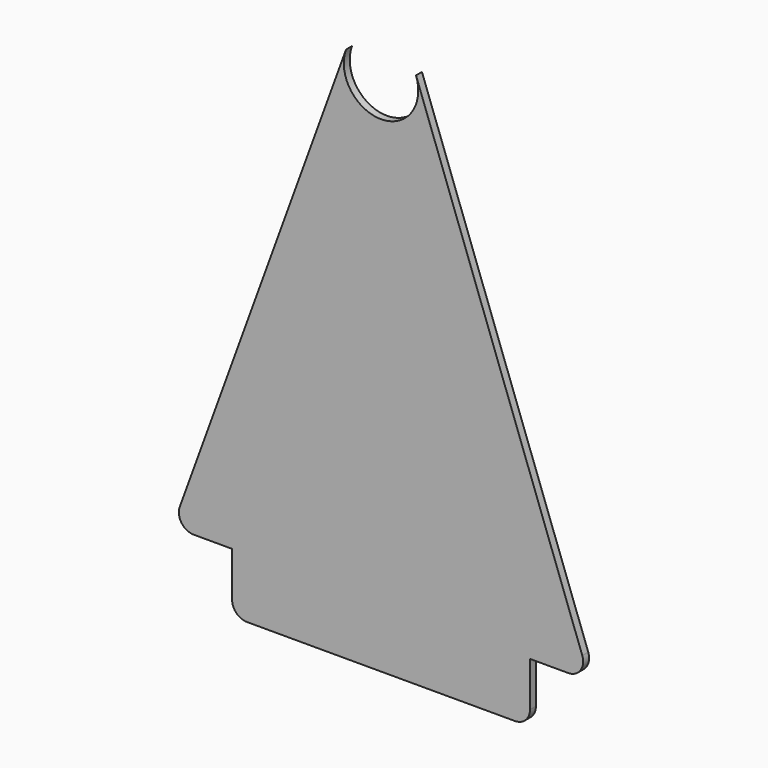
from build123d import *

# Parameters (mm, degrees)
F1_DEPTH = 3.175


with BuildPart() as f1:
    # F0 (on Front) → F1 (new body)
    with BuildSketch(Plane.XZ):
        with BuildLine():
            Line((-57.15, -63.769177), (57.15, -63.769177))
            ThreePointArc((57.15, -63.769177), (61.640128, -61.909305), (63.5, -57.419177))
            Line((63.5, -57.419177), (63.5, -38.369177))
            Line((63.5, -38.369177), (-63.5, -38.369177))
            Line((-63.5, -38.369177), (-63.5, -57.419177))
            ThreePointArc((-63.5, -57.419177), (-61.640128, -61.909305), (-57.15, -63.769177))
        make_face()
        with BuildLine():
            Line((-63.5, -38.369177), (63.5, -38.369177))
            Line((63.5, -38.369177), (79.830245, -38.369177))
            ThreePointArc((79.830245, -38.369177), (85.032052, -35.661113), (85.797065, -29.846721))
            Line((85.797065, -29.846721), (14.917049, 164.830823))
            ThreePointArc((14.917049, 164.830823), (0, 143.524685), (-14.917049, 164.830823))
            Line((-14.917049, 164.830823), (-85.797065, -29.846721))
            ThreePointArc((-85.797065, -29.846721), (-85.032052, -35.661113), (-79.830245, -38.369177))
            Line((-79.830245, -38.369177), (-63.5, -38.369177))
        make_face()
    extrude(amount=F1_DEPTH)


solid = f1.part
